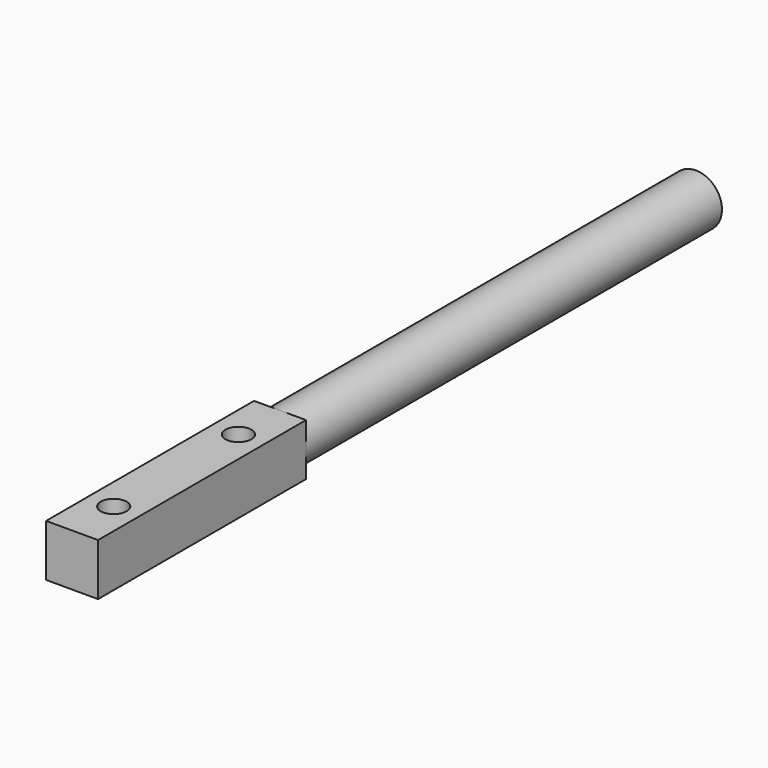
from build123d import *

# Parameters (mm, degrees)
F0_W     = 63.5
F0_H     = 12.7
F1_DEPTH = 6.35
F2_R     = 3.175
F3_DEPTH = 25.4
F4_R     = 6.35
F5_DEPTH = 127


with BuildPart() as f1:
    # F0 (on Right) → F1 (new body, symmetric)
    with BuildSketch(Plane.YZ):
        with Locations((31.75, 6.35)):
            Rectangle(F0_W, F0_H)
    extrude(amount=F1_DEPTH, both=True)

    # F2 (on face) → F3 (cut)
    with BuildSketch(Plane.XY.offset(12.7)):
        with Locations((0, 50.8)):
            Circle(F2_R)
        with Locations((0, 12.7)):
            Circle(F2_R)
    extrude(amount=-F3_DEPTH, mode=Mode.SUBTRACT)

    # F4 (on face) → F5 (join)
    with BuildSketch(Plane(origin=(0, 63.5, 0), x_dir=(-1, 0, 0), z_dir=(0, 1, 0))):
        with Locations((0, 6.35)):
            Circle(F4_R)
    extrude(amount=F5_DEPTH)


solid = f1.part
